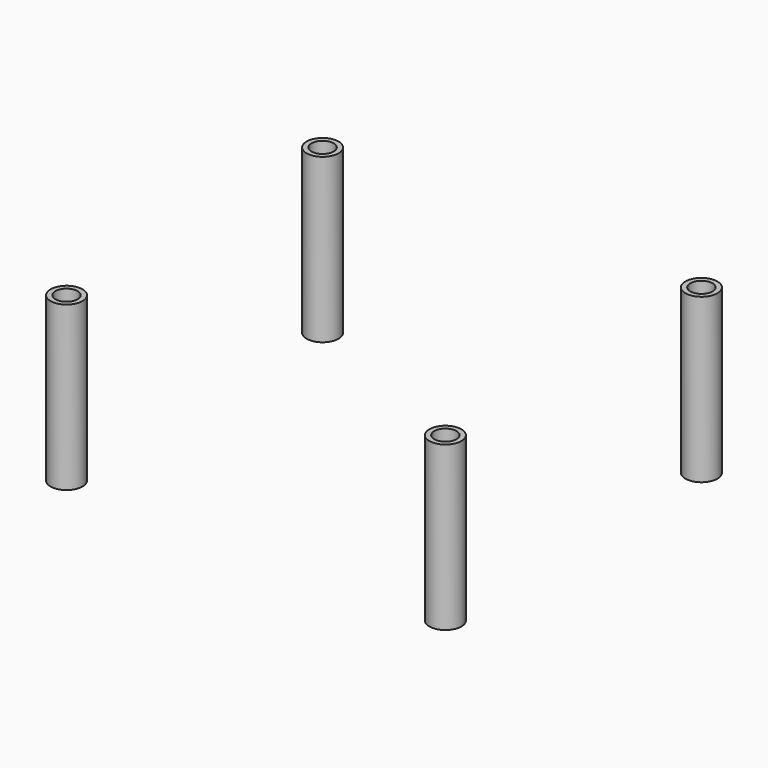
from build123d import *

# Parameters (mm, degrees)
SKETCH069_R      = 2.45
SKETCH069_R_2    = 1.7
PAD085_DEPTH     = 25
ARRAY012_X_COUNT = 2
ARRAY012_X_PITCH = 58
ARRAY012_Y_COUNT = 2
ARRAY012_Y_PITCH = 49


with BuildPart() as part:
    # Sketch069 → Pad085 (new body)
    with BuildSketch(Plane(origin=(0, 0, 0), x_dir=(-1, 0, 0), z_dir=(0, 0, -1))):
        Circle(SKETCH069_R)
        Circle(SKETCH069_R_2, mode=Mode.SUBTRACT)
    extrude(amount=PAD085_DEPTH)

    # Array012 X: part ×2


with BuildPart() as part_1:
    add(part.part)
    with Locations(*[(i * ARRAY012_X_PITCH, 0, 0) for i in range(1, ARRAY012_X_COUNT)]):
        add(part.part)

    # Array012 Y: part ×2


with BuildPart() as part_2:
    add(part_1.part)
    with Locations(*[(0, i * ARRAY012_Y_PITCH, 0) for i in range(1, ARRAY012_Y_COUNT)]):
        add(part_1.part)


solid = part_2.part
